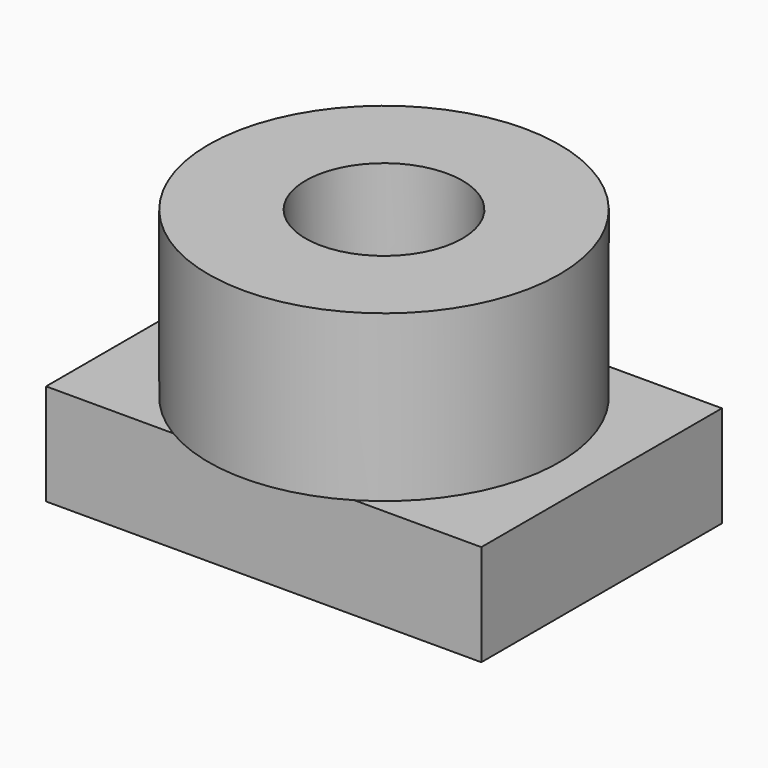
from build123d import *

# Parameters (mm, degrees)
F0_W     = 109.0900748968
F0_H     = 75.3747150302
F1_DEPTH = 25.4
F2_W     = 43.9951886518
F2_H     = 41.4347245544
F4_R     = 19.656837966
F5_DEPTH = 25.4


with BuildPart() as f1:
    # F0 (on Top) → F1 (new body)
    with BuildSketch(Plane.XY):
        Rectangle(F0_W, F0_H)
    extrude(amount=F1_DEPTH)

    # F2 (on Front) → F3 (revolve)
    with BuildSketch(Plane.XZ):
        with Locations((-21.9975943259, 46.1173622772)):
            Rectangle(F2_W, F2_H)
    revolve(axis=Axis((0, 0, 46.1173622772), (0, 0, -1)))

    # F4 (on face) → F5 (cut)
    with BuildSketch(Plane.XY.offset(66.8347245544)):
        Circle(F4_R)
    extrude(amount=-F5_DEPTH, mode=Mode.SUBTRACT)


solid = f1.part
